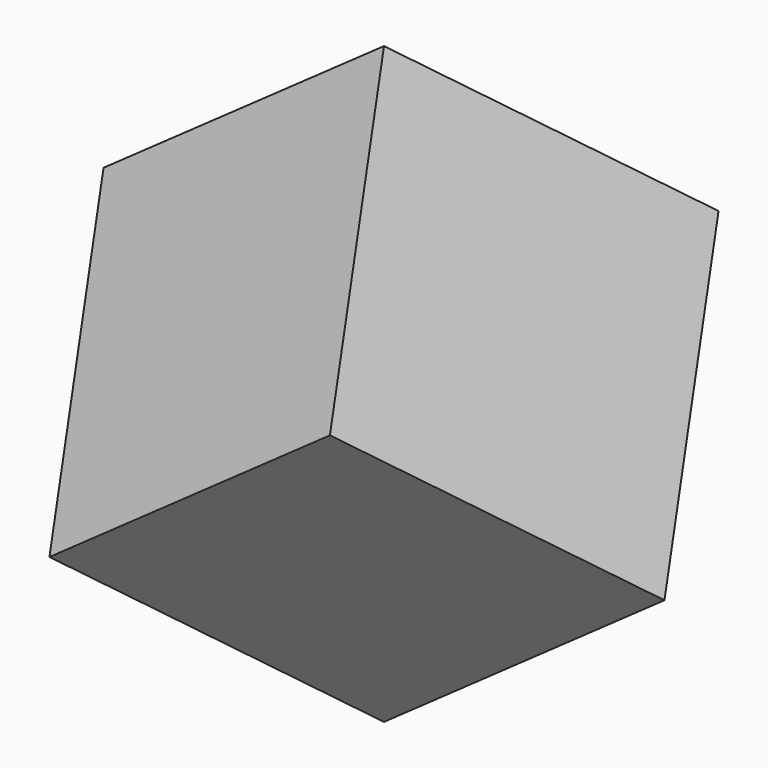
from build123d import *

# Parameters (mm, degrees)
PAD_DEPTH            = 5
BODY_PLACEMENT_ANGLE = 54.73561


with BuildPart() as part:
    # Sketch002 → Pad (new body, symmetric)
    with BuildSketch(Plane.XY):
        Polygon((7.071068, 0), (0, 7.071068), (-7.071068, 0), (0, -7.071068), align=None)
    extrude(amount=PAD_DEPTH, both=True)


with BuildPart() as part_1:
    # Body placement: moved
    add(part.part.rotate(Axis((0, 0, 0), (0, 1, 0)), BODY_PLACEMENT_ANGLE))


solid = part_1.part
